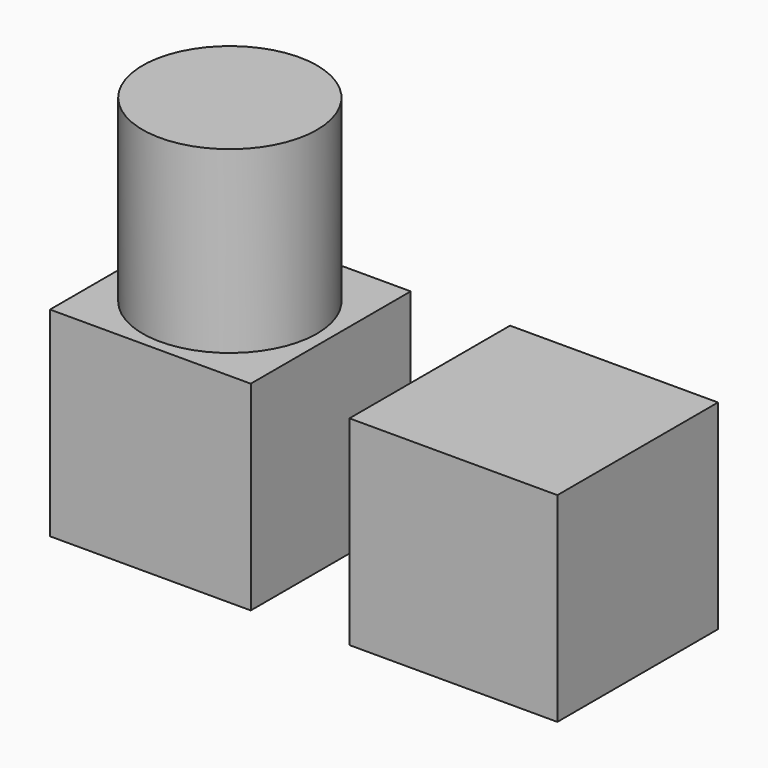
from build123d import *

# Parameters (mm, degrees)
F1_W     = 51.077709
F1_H     = 50.874226
F3_DEPTH = 50.8
F2_R     = 22.188972
F4_DEPTH = 96.448861
F0_W     = 52.909196
F0_H     = 51.077716
F5_DEPTH = 50.8


with BuildPart() as f3:
    # F1 (on Top) → F3 (new body)
    with BuildSketch(Plane.XY):
        with Locations((-39.98711, 36.629435)):
            Rectangle(F1_W, F1_H)
    extrude(amount=F3_DEPTH)

    # F2 (on face) → F4 (join)
    with BuildSketch(Plane.XY):
        with Locations((-39.807215, 36.236107)):
            Circle(F2_R)
    extrude(amount=F4_DEPTH)


with BuildPart() as f5:
    # F0 (on Top) → F5 (new body)
    with BuildSketch(Plane.XY):
        with Locations((36.629468, 37.34168)):
            Rectangle(F0_W, F0_H)
    extrude(amount=F5_DEPTH)


solid = Compound([f3.part, f5.part])
